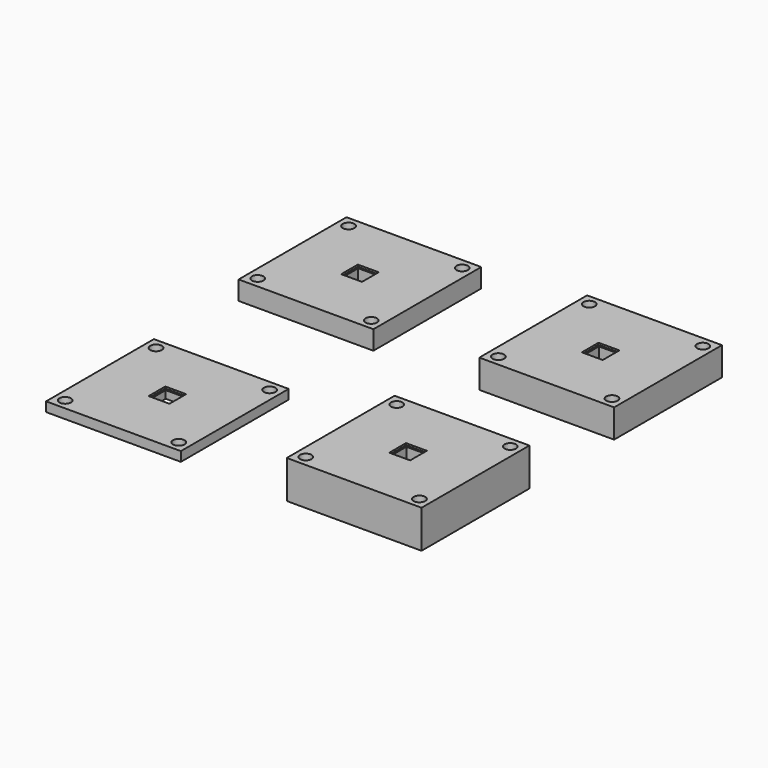
from build123d import *

# Parameters (mm, degrees)
F0_W     = 71.12
F0_H     = 71.12
F0_R     = 3.048
F0_W_2   = 11
F0_H_2   = 11
F1_DEPTH = 5
F2_DEPTH = 10
F3_DEPTH = 15
F4_DEPTH = 20
F0_W_3   = 9
F0_H_3   = 9
F5_DEPTH = 4
F6_DEPTH = 9
F7_DEPTH = 14
F8_DEPTH = 19


with BuildPart() as f1:
    # F0 (on Top) → F1 (new body)
    with BuildSketch(Plane.XY):
        Rectangle(F0_W, F0_H)
        with Locations((-29.972, -29.972)):
            Circle(F0_R, mode=Mode.SUBTRACT)
        Rectangle(F0_W_2, F0_H_2, mode=Mode.SUBTRACT)
        with Locations((29.972, -29.972)):
            Circle(F0_R, mode=Mode.SUBTRACT)
        with Locations((-29.972, 29.972)):
            Circle(F0_R, mode=Mode.SUBTRACT)
        with Locations((29.972, 29.972)):
            Circle(F0_R, mode=Mode.SUBTRACT)
    extrude(amount=F1_DEPTH)


with BuildPart() as f2:
    # F0 (on Top) → F2 (new body)
    with BuildSketch(Plane.XY):
        with Locations((0, 127)):
            Rectangle(F0_W, F0_H)
        with Locations((-29.972, 97.028)):
            Circle(F0_R, mode=Mode.SUBTRACT)
        with Locations((29.972, 97.028)):
            Circle(F0_R, mode=Mode.SUBTRACT)
        with Locations((0, 127)):
            Rectangle(F0_W_2, F0_H_2, mode=Mode.SUBTRACT)
        with Locations((-29.972, 156.972)):
            Circle(F0_R, mode=Mode.SUBTRACT)
        with Locations((29.972, 156.972)):
            Circle(F0_R, mode=Mode.SUBTRACT)
    extrude(amount=F2_DEPTH)

    # F0 (on Top) → F6 (join)
    with BuildSketch(Plane.XY):
        with Locations((0, 127)):
            Rectangle(F0_W_2, F0_H_2)
        with Locations((0, 127)):
            Rectangle(F0_W_3, F0_H_3, mode=Mode.SUBTRACT)
    extrude(amount=F6_DEPTH)


with BuildPart() as f3:
    # F0 (on Top) → F3 (new body)
    with BuildSketch(Plane.XY):
        with Locations((127, 127)):
            Rectangle(F0_W, F0_H)
        with Locations((97.028, 97.028)):
            Circle(F0_R, mode=Mode.SUBTRACT)
        with Locations((156.972, 97.028)):
            Circle(F0_R, mode=Mode.SUBTRACT)
        with Locations((97.028, 156.972)):
            Circle(F0_R, mode=Mode.SUBTRACT)
        with Locations((127, 127)):
            Rectangle(F0_W_2, F0_H_2, mode=Mode.SUBTRACT)
        with Locations((156.972, 156.972)):
            Circle(F0_R, mode=Mode.SUBTRACT)
    extrude(amount=F3_DEPTH)

    # F0 (on Top) → F7 (join)
    with BuildSketch(Plane.XY):
        with Locations((127, 127)):
            Rectangle(F0_W_2, F0_H_2)
        with Locations((127, 127)):
            Rectangle(F0_W_3, F0_H_3, mode=Mode.SUBTRACT)
    extrude(amount=F7_DEPTH)


with BuildPart() as f4:
    # F0 (on Top) → F4 (new body)
    with BuildSketch(Plane.XY):
        with Locations((127, 0)):
            Rectangle(F0_W, F0_H)
        with Locations((97.028, -29.972)):
            Circle(F0_R, mode=Mode.SUBTRACT)
        with Locations((156.972, -29.972)):
            Circle(F0_R, mode=Mode.SUBTRACT)
        with Locations((127, 0)):
            Rectangle(F0_W_2, F0_H_2, mode=Mode.SUBTRACT)
        with Locations((97.028, 29.972)):
            Circle(F0_R, mode=Mode.SUBTRACT)
        with Locations((156.972, 29.972)):
            Circle(F0_R, mode=Mode.SUBTRACT)
    extrude(amount=F4_DEPTH)

    # F0 (on Top) → F8 (join)
    with BuildSketch(Plane.XY):
        with Locations((127, 0)):
            Rectangle(F0_W_2, F0_H_2)
        with Locations((127, 0)):
            Rectangle(F0_W_3, F0_H_3, mode=Mode.SUBTRACT)
    extrude(amount=F8_DEPTH)


with BuildPart() as f5:
    # F0 (on Top) → F5 (new body)
    with BuildSketch(Plane.XY):
        Rectangle(F0_W_2, F0_H_2)
        Rectangle(F0_W_3, F0_H_3, mode=Mode.SUBTRACT)
    extrude(amount=F5_DEPTH)


solid = Compound([f1.part, f2.part, f3.part, f4.part, f5.part])
